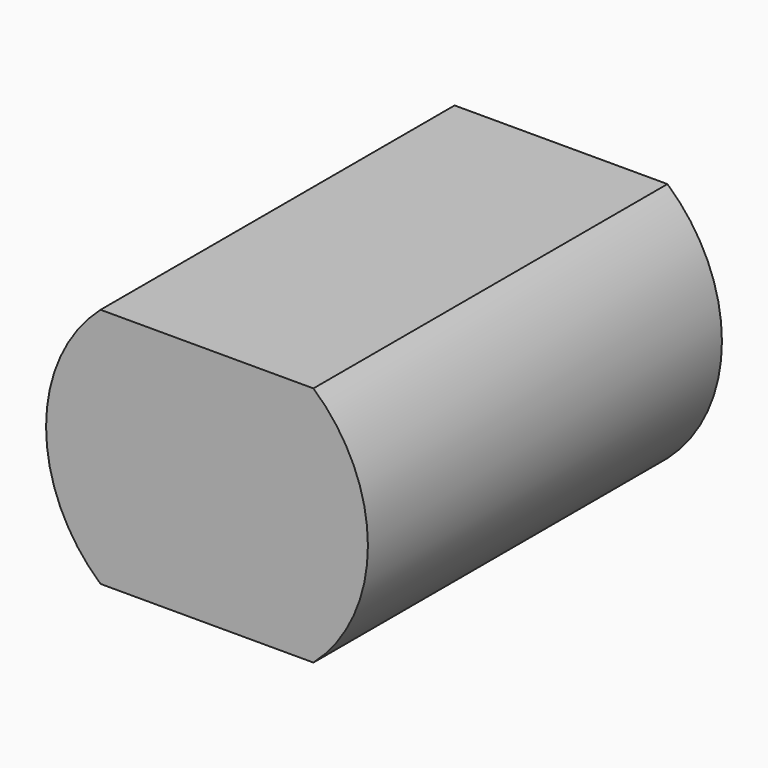
from build123d import *

# Parameters (mm, degrees)
F0_W     = 13.228756
F0_H     = 15
F1_DEPTH = 27.5
F2_R     = 1
F3_DEPTH = 8


with BuildPart() as f1:
    # F0 (on Front) → F1 (new body)
    with BuildSketch(Plane.XZ):
        with BuildLine():
            Line((-6.614378, -7.5), (-6.614378, 7.5))
            ThreePointArc((-6.614378, 7.5), (-10, 0), (-6.614378, -7.5))
        make_face()
        Rectangle(F0_W, F0_H)
        with BuildLine():
            ThreePointArc((6.614378, -7.5), (10, 0), (6.614378, 7.5))
            Line((6.614378, 7.5), (6.614378, -7.5))
        make_face()
    extrude(amount=F1_DEPTH)

    # F2 (on face) → F3 (join)
    with BuildSketch(Plane(origin=(0, 0, 0), x_dir=(-1, 0, 0), z_dir=(0, 1, 0))):
        Circle(F2_R)
    extrude(amount=F3_DEPTH)


solid = f1.part
